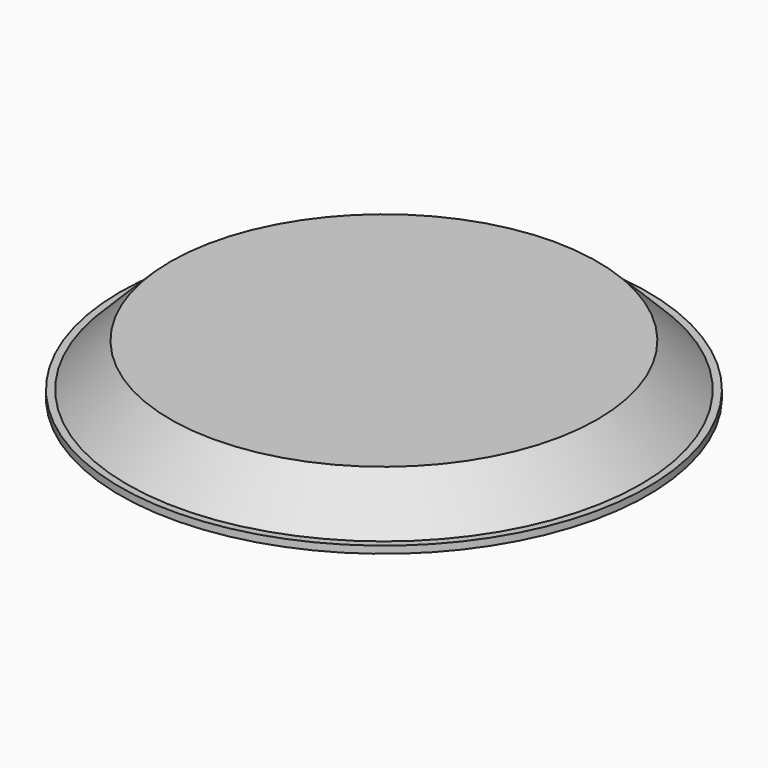
from build123d import *

# Parameters (mm, degrees)
F2_SIZE = 0.3


with BuildPart() as f1:
    # F0 (on Front) → F1 (revolve)
    with BuildSketch(Plane.XZ):
        Polygon((-11, 0), (-10.7, 0.3), (-11, 0.3), align=None)
        Polygon((-5.5, 0), (-2.8, 0), (-2.8, -2.4), (-3.4, -2.4), (-3.4, -3), (-2.1, -3), (-2.1, -0.4), (0, -0.4), (0, 2.1), (-8.9, 2.1), (-10.7, 0.3), (-5.5, 0.3), align=None)
    revolve(axis=Axis((0, 0, -0.4979), (0, 0, -1)))

    # F2
    f2_edges = [f1.edges().sort_by_distance(p)[0] for p in [
        (3.4, 0, -3),
    ]]
    chamfer(f2_edges, length=F2_SIZE)


solid = f1.part
